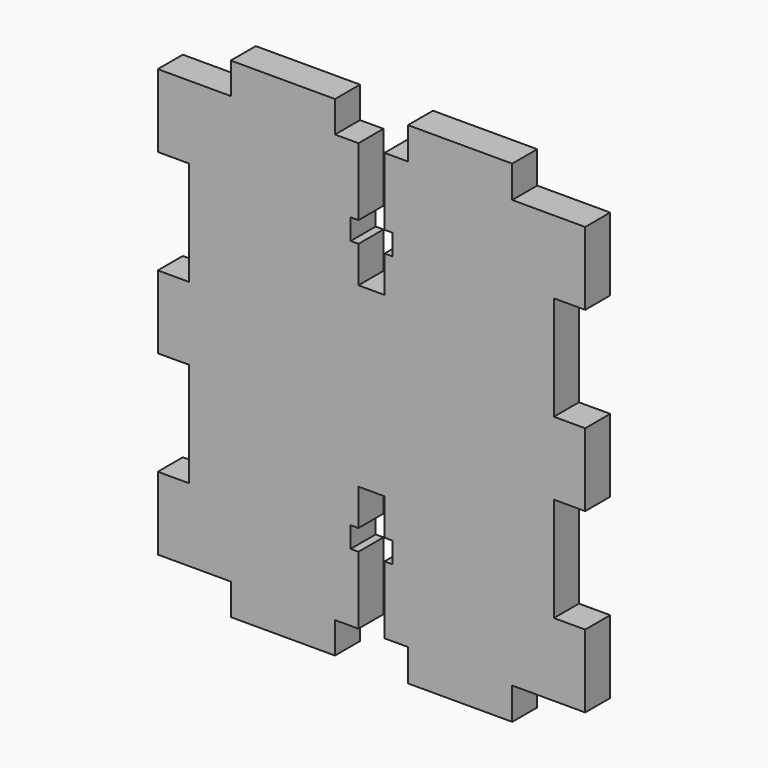
from build123d import *

# Parameters (mm, degrees)
F1_DEPTH = 1.5


with BuildPart() as f1:
    # F0 (on Front) → F1 (new body, symmetric)
    with BuildSketch(Plane.XZ):
        Polygon((7, 0), (0, 0), (0, -7), (3, -7), (3, -17), (0, -17), (0, -24), (3, -24), (3, -34), (0, -34), (0, -41), (7, -41), (7, -44), (17, -44), (17, -41), (19.25, -41), (19.25, -34.5), (18.5, -34.5), (18.5, -32.5), (19.25, -32.5), (19.25, -29), (21.75, -29), (21.75, -32.5), (22.5, -32.5), (22.5, -34.5), (21.75, -34.5), (21.75, -41), (24, -41), (24, -44.073563), (34, -44.073563), (34, -41), (41, -41), (41, -34), (38, -34), (38, -24), (41, -24), (41, -17), (38, -17), (38, -7), (41, -7), (41, 0), (34, 0), (34, 3.073563), (24, 3.073563), (24, 0), (21.75, 0), (21.75, -6.5), (22.5, -6.5), (22.5, -8.5), (21.75, -8.5), (21.75, -12), (19.25, -12), (19.25, -8.5), (18.5, -8.5), (18.5, -6.5), (19.25, -6.5), (19.25, 0), (17, 0), (17, 3), (7, 3), align=None)
    extrude(amount=F1_DEPTH, both=True)


solid = f1.part
